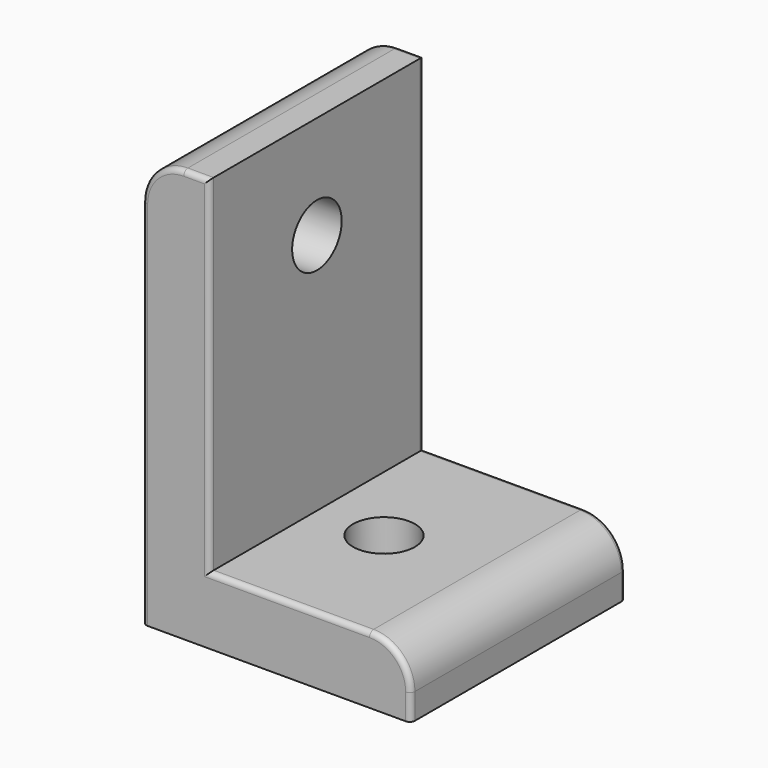
from build123d import *

# Parameters (mm, degrees)
F1_DEPTH = 26
F2_R     = 3
F3_DEPTH = 25
F4_R     = 3
F5_DEPTH = 25
F6_R     = 4
F7_R     = 0.5


with BuildPart() as f1:
    # F0 (on Front) → F1 (new body)
    with BuildSketch(Plane.XZ):
        Polygon((0, 0), (0, 33.5), (-6.5, 33.5), (-6.5, -6.5), (19.5, -6.5), (19.5, 0), align=None)
    extrude(amount=-F1_DEPTH)

    # F2 (on Right) → F3 (cut)
    with BuildSketch(Plane.YZ):
        with Locations((13, 23.5)):
            Circle(F2_R)
    extrude(amount=-F3_DEPTH, mode=Mode.SUBTRACT)

    # F4 (on Top) → F5 (cut)
    with BuildSketch(Plane.XY):
        with Locations((6.5, 13)):
            Circle(F4_R)
    extrude(amount=-F5_DEPTH, mode=Mode.SUBTRACT)

    # F6
    f6_edges = [f1.edges().sort_by_distance(p)[0] for p in [
        (-6.5, 13, 33.5),
        (19.5, 13, 0),
    ]]
    fillet(f6_edges, radius=F6_R)

    # F7
    f7_edges = [f1.edges().sort_by_distance(p)[0] for p in [
        (-6.5, 0, 11.5),
        (-6.5, 26, 11.5),
        (7.75, 26, 0),
        (0, 26, 16.75),
        (0, 0, 16.75),
        (7.75, 0, 0),
    ]]
    fillet(f7_edges, radius=F7_R)


solid = f1.part
